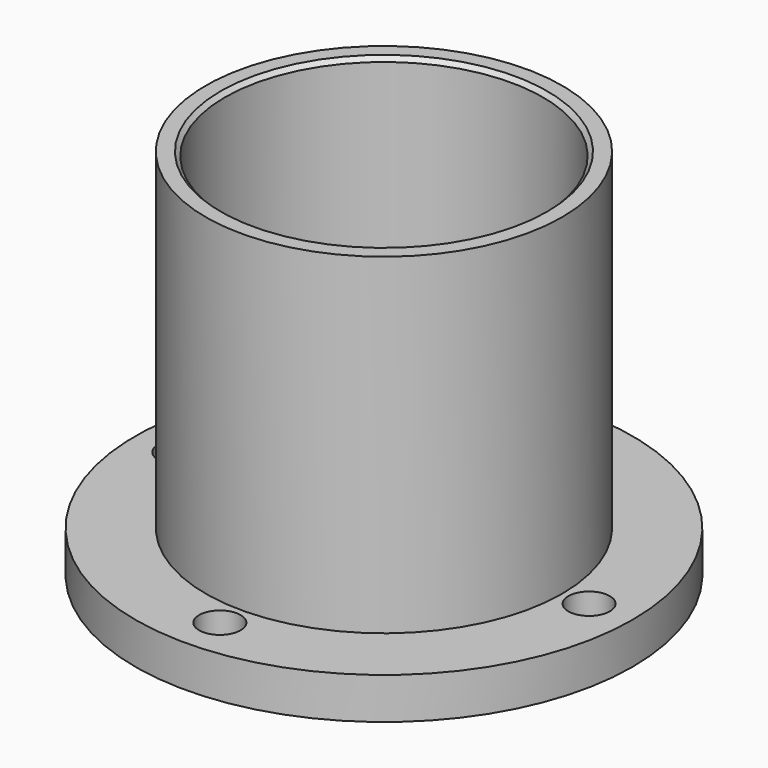
from build123d import *

# Parameters (mm, degrees)
F0_R     = 21.5
F0_R_2   = 19.2
F1_DEPTH = 40
F2_R     = 30
F2_R_2   = 12.5
F3_DEPTH = 5
F5_D     = 5
F6_SIZE  = 0.5


with BuildPart() as f1:
    # F0 (on Top) → F1 (new body)
    with BuildSketch(Plane.XY):
        Circle(F0_R)
        Circle(F0_R_2, mode=Mode.SUBTRACT)
    extrude(amount=F1_DEPTH)

    # F2 (on Top) → F3 (join)
    with BuildSketch(Plane.XY):
        Circle(F2_R)
        Circle(F2_R_2, mode=Mode.SUBTRACT)
    extrude(amount=-F3_DEPTH)

    # F5 (through all)
    with Locations(Plane(origin=(0, 0, -5), x_dir=(1, 0, 0), z_dir=(0, 0, -1))):
        with Locations((-24.75, 0), (0, 24.75), (24.75, 0), (0, -24.75)):
            Hole(F5_D / 2)

    # F6
    f6_edges = [f1.edges().sort_by_distance(p)[0] for p in [
        (-19.2, 0, 40),
    ]]
    chamfer(f6_edges, length=F6_SIZE)


solid = f1.part
